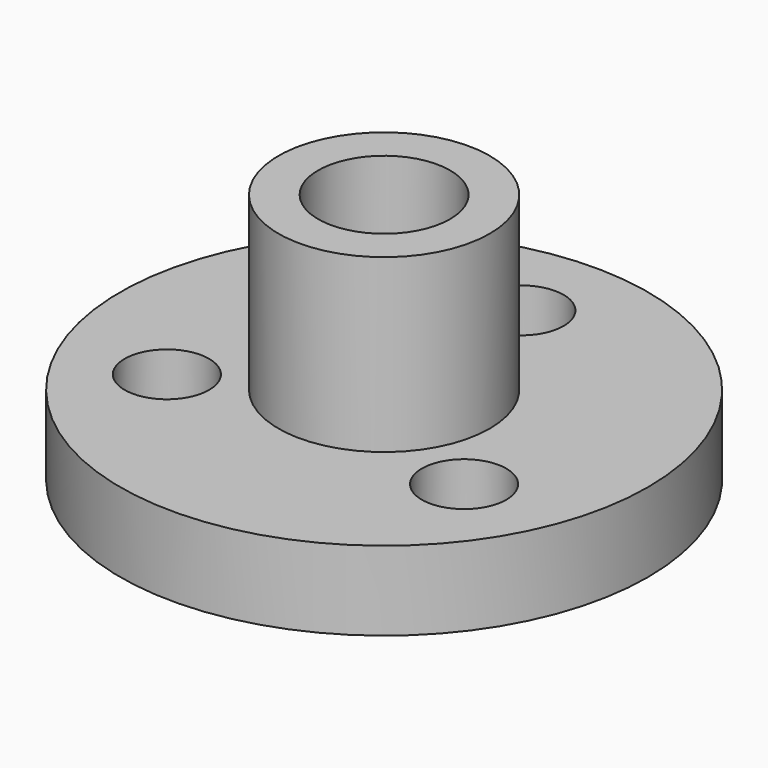
from build123d import *

# Parameters (mm, degrees)
F2_R     = 10
F2_R_2   = 1.6
F2_R_3   = 4
F2_R_4   = 2.5
F3_DEPTH = 3
F4_DEPTH = 9.5


with BuildPart() as f3:
    # F2 (on Top) → F3 (new body)
    with BuildSketch(Plane.XY):
        Circle(F2_R)
        with Locations((-5.6291651246, -3.25)):
            Circle(F2_R_2, mode=Mode.SUBTRACT)
        with Locations((5.6291651246, -3.25)):
            Circle(F2_R_2, mode=Mode.SUBTRACT)
        Circle(F2_R_3, mode=Mode.SUBTRACT)
        with Locations((0, 6.5)):
            Circle(F2_R_2, mode=Mode.SUBTRACT)
        Circle(F2_R_3)
        Circle(F2_R_4, mode=Mode.SUBTRACT)
    extrude(amount=F3_DEPTH)

    # F2 (on Top) → F4 (join)
    with BuildSketch(Plane.XY):
        Circle(F2_R_3)
        Circle(F2_R_4, mode=Mode.SUBTRACT)
    extrude(amount=F4_DEPTH)


solid = f3.part
